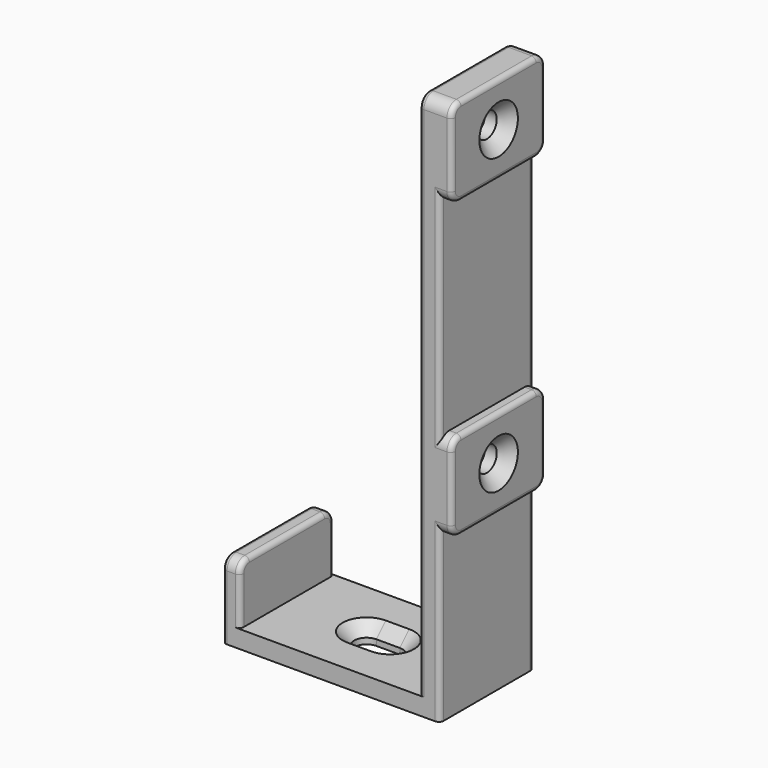
from build123d import *

# Parameters (mm, degrees)
SKETCH013_W         = 30.5
SKETCH013_H         = 20
PAD007_DEPTH        = 3
PAD008_DEPTH        = 3
PAD009_DEPTH        = 3.5
HOLE004_D           = 4.2
HOLE004_DEPTH       = 25
HOLE004_CSINK_D     = 8.4
HOLE004_CSINK_ANGLE = 90
HOLE004_TIPS_R      = 2.1
POCKET002_DEPTH     = 3.001
CHAMFER_SIZE        = 2
FILLET_R            = 0.8
PAD017_DEPTH        = 2
HOLE008_D           = 4.2
HOLE008_DEPTH       = 25
HOLE008_CSINK_D     = 8.2
HOLE008_CSINK_ANGLE = 90
HOLE008_TIPS_R      = 2.1
FILLET002_R         = 0.8


with BuildPart() as part:
    # Sketch013 → Pad007 (new body)
    with BuildSketch(Plane.XY):
        with Locations((18.25, 10)):
            Rectangle(SKETCH013_W, SKETCH013_H)
    extrude(amount=PAD007_DEPTH)

    # Sketch014 (on Face4 of Pad007) → Pad008 (join)
    with BuildSketch(Plane(origin=(3, 0, 0), x_dir=(0, -1, 0), z_dir=(-1, 0, 0))):
        with BuildLine():
            Line((-20, 0), (0, 0))
            Line((0, 0), (0, 11))
            ThreePointArc((0, 11), (-0.585786, 12.414214), (-2, 13))
            Line((-2, 13), (-18, 13))
            ThreePointArc((-18, 13), (-19.414214, 12.414214), (-20, 11))
            Line((-20, 11), (-20, 0))
        make_face()
    extrude(amount=PAD008_DEPTH)

    # Sketch015 (on Face1 of Pad008) → Pad009 (join)
    with BuildSketch(Plane.YZ.offset(33.5)):
        with BuildLine():
            Line((20, 0), (20, 91))
            ThreePointArc((20, 91), (19.414214, 92.414214), (18, 93))
            Line((18, 93), (2, 93))
            ThreePointArc((2, 93), (0.585786, 92.414214), (0, 91))
            Line((0, 91), (0, 0))
            Line((0, 0), (20, 0))
        make_face()
    extrude(amount=PAD009_DEPTH)

    # Hole004
    with Locations(Plane.YZ.offset(37)):
        with Locations((10, 35.5), (10, 85.5)):
            CounterSinkHole(HOLE004_D / 2, HOLE004_CSINK_D / 2, depth=HOLE004_DEPTH, counter_sink_angle=HOLE004_CSINK_ANGLE)

    # Hole004 tips → Hole004 tip 1 section 0
    with BuildSketch(Plane.YZ.offset(12), mode=Mode.PRIVATE) as hole004_tip_1_s0:
        with Locations((10, 35.5)):
            Circle(HOLE004_TIPS_R)
    loft([hole004_tip_1_s0.sketch, Vertex(10.738193, 10, 35.5)], mode=Mode.SUBTRACT)

    # Hole004 tips → Hole004 tip 2 section 0
    with BuildSketch(Plane.YZ.offset(12), mode=Mode.PRIVATE) as hole004_tip_2_s0:
        with Locations((10, 85.5)):
            Circle(HOLE004_TIPS_R)
    loft([hole004_tip_2_s0.sketch, Vertex(10.738193, 10, 85.5)], mode=Mode.SUBTRACT)

    # Sketch017 (on Face1 of Hole004) → Pocket002 (cut, through all)
    with BuildSketch(Plane.XY.offset(3)):
        with BuildLine():
            ThreePointArc((16.553834, 12.053193), (14.478422, 9.977781), (16.553834, 7.902369))
            Line((16.553834, 7.902369), (20.553834, 7.902369))
            ThreePointArc((20.553834, 7.902369), (22.629246, 9.977781), (20.553834, 12.053193))
            Line((16.553834, 12.053193), (20.553834, 12.053193))
        make_face()
    extrude(amount=-POCKET002_DEPTH, mode=Mode.SUBTRACT)

    # Chamfer
    chamfer_edges = [part.edges().sort_by_distance(p)[0] for p in [
        (18.553834, 7.902369, 3),
    ]]
    chamfer(chamfer_edges, length=CHAMFER_SIZE)

    # Fillet
    fillet_edges = [part.edges().sort_by_distance(p)[0] for p in [
        (0, 10, 13),
        (3, 10, 13),
        (33.5, 10, 93),
        (37, 10, 93),
    ]]
    fillet(fillet_edges, radius=FILLET_R)

    # Sketch035 (on Face38 of Fillet) → Pad017 (join, symmetric)
    with BuildSketch(Plane.YZ.offset(37)):
        with BuildLine():
            Line((0, 91), (0, 80))
            ThreePointArc((0, 80), (0.585786, 78.585786), (2, 78))
            Line((2, 78), (18, 78))
            ThreePointArc((18, 78), (19.414214, 78.585786), (20, 80))
            Line((20, 80), (20, 91))
            ThreePointArc((20, 91), (19.414214, 92.414214), (18, 93))
            Line((18, 93), (2, 93))
            ThreePointArc((2, 93), (0.585786, 92.414214), (0, 91))
        make_face()
        with BuildLine():
            Line((0, 41), (0, 30))
            ThreePointArc((0, 30), (0.585786, 28.585786), (2, 28))
            Line((2, 28), (18, 28))
            ThreePointArc((18, 28), (19.414214, 28.585786), (20, 30))
            Line((20, 30), (20, 41))
            ThreePointArc((20, 41), (19.414214, 42.414214), (18, 43))
            Line((18, 43), (2, 43))
            ThreePointArc((2, 43), (0.585786, 42.414214), (0, 41))
        make_face()
    extrude(amount=PAD017_DEPTH, both=True)

    # Hole008
    with Locations(Plane.YZ.offset(39)):
        with Locations((10, 85.5), (10, 35.5)):
            CounterSinkHole(HOLE008_D / 2, HOLE008_CSINK_D / 2, depth=HOLE008_DEPTH, counter_sink_angle=HOLE008_CSINK_ANGLE)

    # Hole008 tips → Hole008 tip 1 section 0
    with BuildSketch(Plane.YZ.offset(14), mode=Mode.PRIVATE) as hole008_tip_1_s0:
        with Locations((10, 85.5)):
            Circle(HOLE008_TIPS_R)
    loft([hole008_tip_1_s0.sketch, Vertex(12.738193, 10, 85.5)], mode=Mode.SUBTRACT)

    # Hole008 tips → Hole008 tip 2 section 0
    with BuildSketch(Plane.YZ.offset(14), mode=Mode.PRIVATE) as hole008_tip_2_s0:
        with Locations((10, 35.5)):
            Circle(HOLE008_TIPS_R)
    loft([hole008_tip_2_s0.sketch, Vertex(12.738193, 10, 35.5)], mode=Mode.SUBTRACT)

    # Fillet002
    fillet002_edges = [part.edges().sort_by_distance(p)[0] for p in [
        (39, 10, 93),
        (39, 10, 43),
    ]]
    fillet(fillet002_edges, radius=FILLET002_R)


with BuildPart() as part_1:
    # Body003 placement: moved
    add(part.part.moved(Location((-104.9, 0, 0))))


solid = part_1.part
